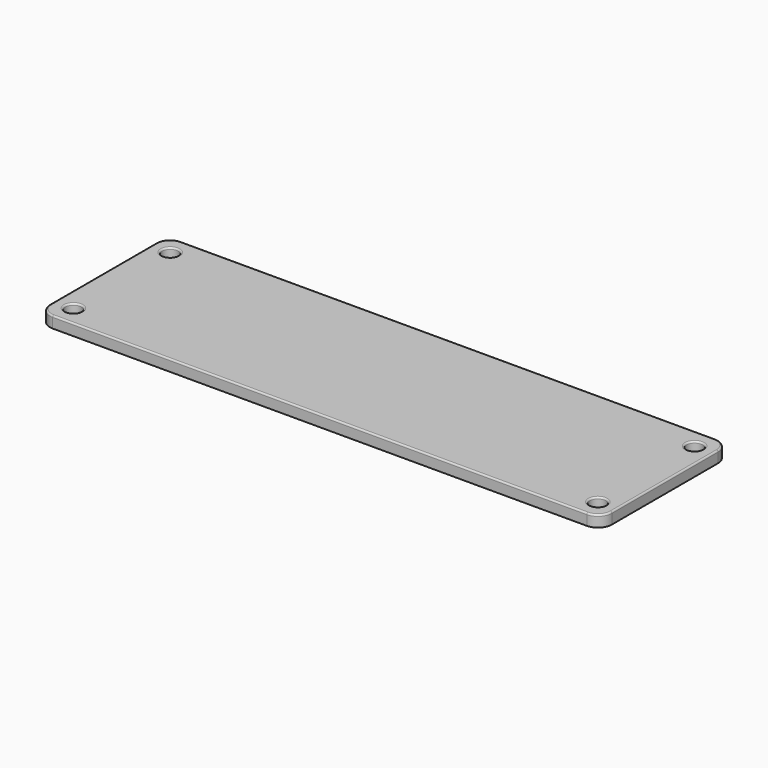
from build123d import *

# Parameters (mm, degrees)
F0_W     = 105
F0_H     = 30
F1_DEPTH = 2.14
F2_R     = 2.6
F3_R     = 1.5
F4_DEPTH = 2.14
F5_R     = 0.3


with BuildPart() as f1:
    # F0 (on Top) → F1 (new body)
    with BuildSketch(Plane.XY):
        Rectangle(F0_W, F0_H)
    extrude(amount=F1_DEPTH)

    # F2
    f2_edges = [f1.edges().sort_by_distance(p)[0] for p in [
        (-52.5, -15, 1.07),
        (-52.5, 15, 1.07),
        (52.5, 15, 1.07),
        (52.5, -15, 1.07),
    ]]
    fillet(f2_edges, radius=F2_R)

    # F3 (on face) → F4 (cut, through all)
    with BuildSketch(Plane.XY.offset(2.14)):
        with Locations((-49, 11.3)):
            Circle(F3_R)
        with Locations((-49, -11.3)):
            Circle(F3_R)
        with Locations((49, -11.3)):
            Circle(F3_R)
        with Locations((49, 11.3)):
            Circle(F3_R)
    extrude(amount=-F4_DEPTH, mode=Mode.SUBTRACT)

    # F5
    f5_edges = [f1.edges().sort_by_distance(p)[0] for p in [
        (52.5, 0, 2.14),
        (51.738478, -14.238478, 2.14),
        (51.738478, 14.238478, 2.14),
        (0, -15, 2.14),
        (0, 15, 2.14),
        (-51.738478, -14.238478, 2.14),
        (-51.738478, 14.238478, 2.14),
        (-52.5, 0, 2.14),
        (-50.5, -11.3, 2.14),
        (47.5, -11.3, 2.14),
        (-50.5, 11.3, 2.14),
        (47.5, 11.3, 2.14),
    ]]
    fillet(f5_edges, radius=F5_R)


solid = f1.part
